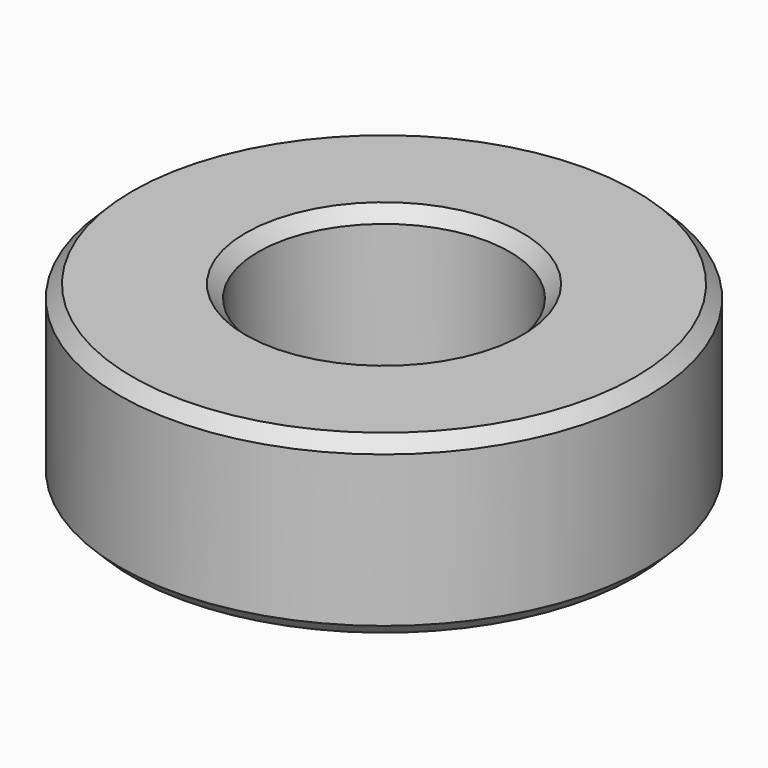
from build123d import *

# Parameters (mm, degrees)
F0_W    = 5.5
F0_H    = 7
F2_SIZE = 0.5


with BuildPart() as f1:
    # F0 (on Front) → F1 (revolve)
    with BuildSketch(Plane.XZ):
        with Locations((-7.75, 18.5)):
            Rectangle(F0_W, F0_H)
    revolve(axis=Axis((0, 0, 18.770511), (0, 0, 1)))

    # F2
    f2_edges = [f1.edges().sort_by_distance(p)[0] for p in [
        (10.5, 0, 22),
        (5, 0, 22),
        (10.5, 0, 15),
        (5, 0, 15),
    ]]
    chamfer(f2_edges, length=F2_SIZE)


solid = f1.part
